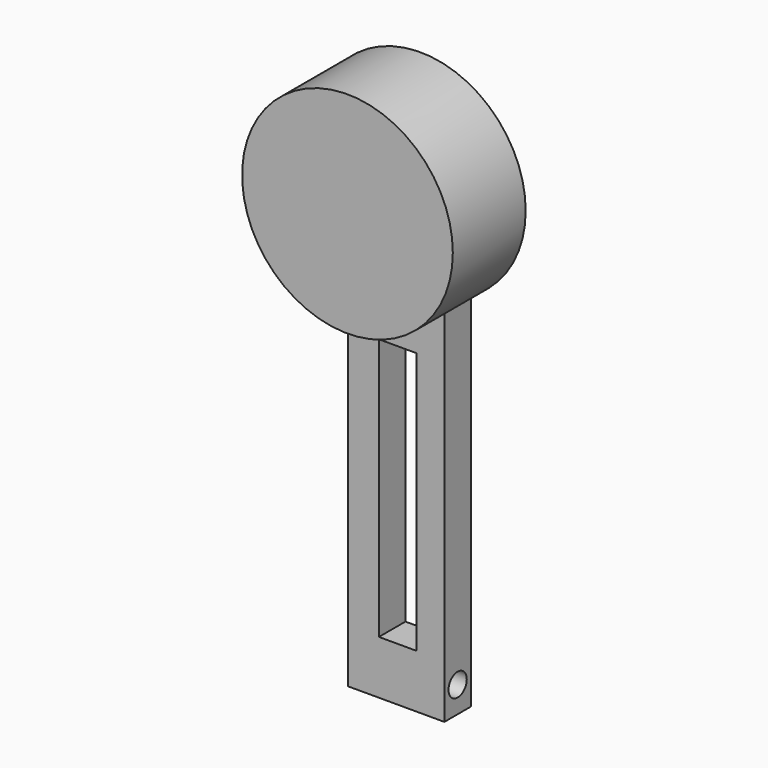
from build123d import *

# Parameters (mm, degrees)
F0_R      = 29.3755194238
F0_R_2    = 20.4584720474
F1_DEPTH  = 25.4
F3_W      = 26.813134551
F3_H      = 9.2550148256
F4_DEPTH  = 102.5347784162
F2_R      = 21.5684000446
F5_DEPTH  = 19.05
F7_R      = 3.175
F8_DEPTH  = 50.8
F9_W      = 10.5024166405
F9_H      = 73.061581701
F10_DEPTH = 25.4


with BuildPart() as f1:
    # F0 (on Front) → F1 (new body)
    with BuildSketch(Plane.XZ):
        with Locations((-56.8432807922, 24.0650400519)):
            Circle(F0_R)
        with Locations((-56.8432807922, 24.0650400519)):
            Circle(F0_R_2, mode=Mode.SUBTRACT)
        with Locations((-56.8432807922, 24.0650400519)):
            Circle(F0_R_2)
    extrude(amount=F1_DEPTH)

    # F3 (on Top) → F4 (join)
    with BuildSketch(Plane.XY):
        with Locations((-56.0491830111, -4.7410854604)):
            Rectangle(F3_W, F3_H)
    extrude(amount=-F4_DEPTH)

    # F2 (on face) → F5 (cut)
    with BuildSketch(Plane(origin=(0, 0, 0), x_dir=(-1, 0, 0), z_dir=(0, 1, 0))):
        with Locations((56.8432807922, 24.0650400519)):
            Circle(F2_R)
    extrude(amount=-F5_DEPTH, mode=Mode.SUBTRACT)

    # F7 (on face) → F8 (cut)
    with BuildSketch(Plane.YZ.offset(-42.6426157355)):
        with Locations((-4.7467201948, -95.2464714646)):
            Circle(F7_R)
    extrude(amount=-F8_DEPTH, mode=Mode.SUBTRACT)

    # F9 (on face) → F10 (cut)
    with BuildSketch(Plane(origin=(0, -0.1135780476, 0), x_dir=(-1, 0, 0), z_dir=(0, 1, 0))):
        with Locations((55.6544419378, -51.0808248073)):
            Rectangle(F9_W, F9_H)
    extrude(amount=-F10_DEPTH, mode=Mode.SUBTRACT)


solid = f1.part
